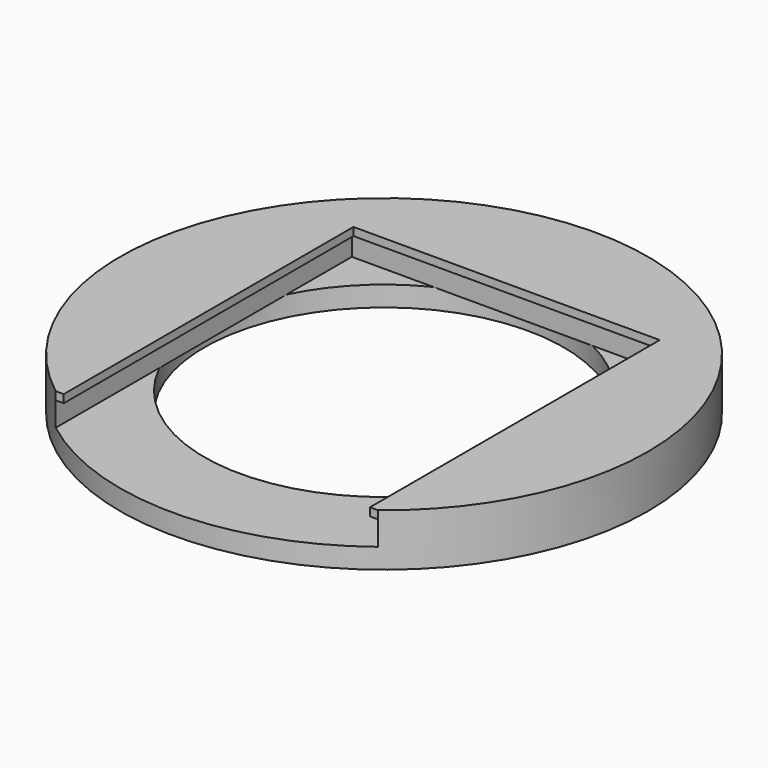
from build123d import *

# Parameters (mm, degrees)
F0_R      = 65.5
F1_DEPTH  = 13
F2_R      = 44.6
F2_R_2    = 34.6
F3_DEPTH  = 5
F4_R      = 34.6
F5_DEPTH  = 25
F7_DEPTH  = 8
F8_W      = 88.3397431672
F8_H      = 2
F9_DEPTH  = 2
F10_W     = 78
F10_H     = 2
F11_DEPTH = 2
F12_W     = 89.867619957
F12_H     = 2
F13_DEPTH = 2
F8_W_2    = 3.5278767898
F14_DEPTH = 2


with BuildPart() as f1:
    # F0 (on Top) → F1 (new body)
    with BuildSketch(Plane.XY):
        Circle(F0_R)
    extrude(amount=F1_DEPTH)

    # F2 (on Top) → F3 (cut)
    with BuildSketch(Plane.XY):
        Circle(F2_R)
        Circle(F2_R_2, mode=Mode.SUBTRACT)
        Circle(F2_R_2)
    extrude(amount=F3_DEPTH, mode=Mode.SUBTRACT)

    # F4 (on face) → F5 (cut)
    with BuildSketch(Plane(origin=(0, 0, 0), x_dir=(1, 0, 0), z_dir=(0, 0, -1))):
        Circle(F4_R)
    extrude(amount=-F5_DEPTH, mode=Mode.SUBTRACT)

    # F6 (on face) → F7 (cut)
    with BuildSketch(Plane.XY.offset(13)):
        with BuildLine():
            ThreePointArc((-34.6, 0), (0, 34.6), (34.6, 0))
            Line((34.6, 0), (40, 0))
            Line((40, 0), (40, 40))
            Line((40, 40), (-40, 40))
            Line((-40, 40), (-40, 0))
            Line((-40, 0), (-34.6, 0))
        make_face()
        with BuildLine():
            Line((40, 0), (34.6, 0))
            ThreePointArc((34.6, 0), (0, -34.6), (-34.6, 0))
            Line((-34.6, 0), (-40, 0))
            Line((-40, 0), (-40, -51.867619957))
            ThreePointArc((-40, -51.867619957), (0, -65.5), (40, -51.867619957))
            Line((40, -51.867619957), (40, 0))
        make_face()
    extrude(amount=-F7_DEPTH, mode=Mode.SUBTRACT)

    # F8 (on face) → F9 (join)
    with BuildSketch(Plane.YZ.offset(-40)):
        with Locations((-4.1698715836, 12)):
            Rectangle(F8_W, F8_H)
    extrude(amount=F9_DEPTH)

    # F10 (on face) → F11 (join)
    with BuildSketch(Plane.XZ.offset(-40)):
        with Locations((1, 12)):
            Rectangle(F10_W, F10_H)
    extrude(amount=F11_DEPTH)

    # F12 (on face) → F13 (join)
    with BuildSketch(Plane(origin=(40, 0, 0), x_dir=(0, -1, 0), z_dir=(-1, 0, 0))):
        with Locations((6.9338099785, 12)):
            Rectangle(F12_W, F12_H)
    extrude(amount=F13_DEPTH)

    # F8 (on face) → F14 (join)
    with BuildSketch(Plane.YZ.offset(-40)):
        with Locations((-4.1698715836, 12)):
            Rectangle(F8_W, F8_H)
        with Locations((-50.1036815621, 12)):
            Rectangle(F8_W_2, F8_H)
    extrude(amount=F14_DEPTH)


solid = f1.part
